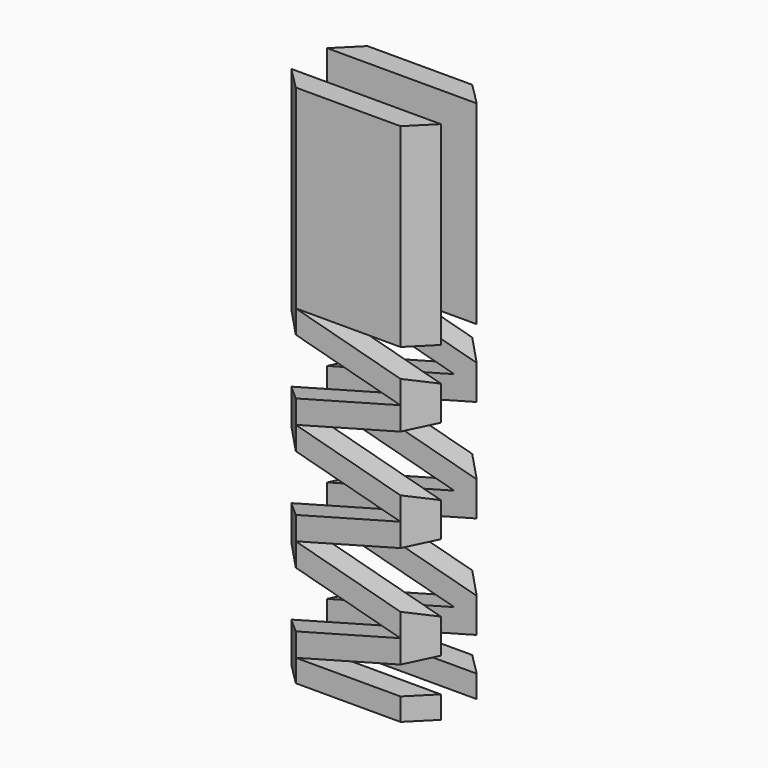
from build123d import *

# Parameters (mm, degrees)
F1_DEPTH = 15
F3_DEPTH = 350.714517


with BuildPart() as f1:
    # F0 (on Front) → F1 (new body)
    with BuildSketch(Plane.XZ):
        Polygon((50, -87.775681), (-35, -65), (-50, -65), (-50, -76.509905), (35, -99.285586), (-50, -122.061268), (-50, -145.081077), (35, -167.856759), (-50, -190.63244), (-50, -213.65225), (35, -236.427931), (-50, -259.203612), (-50, -285.713517), (50, -285.713517), (50, -270.713517), (-35, -270.713517), (50, -247.937836), (50, -224.918026), (-35, -202.142345), (50, -179.366663), (50, -156.346854), (-35, -133.571172), (50, -110.795491), align=None)
        Polygon((-35, -65), (50, -65), (50, 65), (-50, 65), (-50, -65), align=None)
    extrude(amount=F1_DEPTH)

    # F2 (on face) → F3 (cut, through all)
    with BuildSketch(Plane.XY.offset(65)):
        Polygon((-50, 0), (-50, -15), (-35, 0), align=None)
        Polygon((35, 0), (50, -15), (50, 0), align=None)
    extrude(amount=-F3_DEPTH, mode=Mode.SUBTRACT)


with BuildPart() as f4_1:
    # F4: instance of F1
    add(f1.part.mirror(Plane(origin=(0, -15, -81.882003), x_dir=(1, 0, 0), z_dir=(0, -1, 0))))


with BuildPart() as f4_1_1:
    # F5: moved
    add(f4_1.part.moved(Location((0, -30, 0))))


solid = Compound([f1.part, f4_1_1.part])
